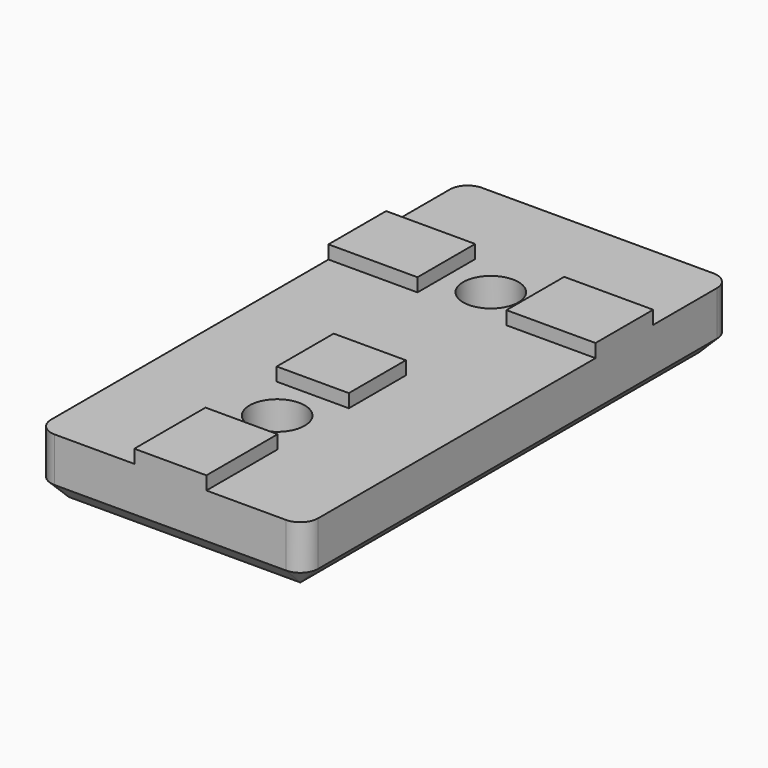
from build123d import *

# Parameters (mm, degrees)
SKETCH_W      = 30
SKETCH_H      = 60
PAD_DEPTH     = 7
FILLET_R      = 2
CHAMFER_SIZE  = 2
SKETCH001_R   = 3.1
POCKET_DEPTH  = 7.001
SKETCH002_W   = 10
SKETCH002_H   = 8.1
SKETCH002_W_2 = 8.1
SKETCH002_H_2 = 10
SKETCH002_H_3 = 8
PAD001_DEPTH  = 1.5


with BuildPart() as part:
    # Sketch → Pad (new body)
    with BuildSketch(Plane.XY):
        with Locations((0, -30)):
            Rectangle(SKETCH_W, SKETCH_H)
    extrude(amount=PAD_DEPTH)

    # Fillet
    fillet_edges = [part.edges().sort_by_distance(p)[0] for p in [
        (15, -60, 3.5),
        (15, 0, 3.5),
        (-15, 0, 3.5),
        (-15, -60, 3.5),
    ]]
    fillet(fillet_edges, radius=FILLET_R)

    # Chamfer
    chamfer_edges = [part.edges().sort_by_distance(p)[0] for p in [
        (15, -30, 0),
        (0, -60, 0),
        (-15, -30, 0),
        (0, 0, 0),
    ]]
    chamfer(chamfer_edges, length=CHAMFER_SIZE)

    # Sketch001 (on Face4 of Chamfer) → Pocket (cut, through all)
    with BuildSketch(Plane.XY.offset(7)):
        with Locations((0, -15)):
            Circle(SKETCH001_R)
        with Locations((0, -45)):
            Circle(SKETCH001_R)
    extrude(amount=-POCKET_DEPTH, mode=Mode.SUBTRACT)

    # Sketch002 (on Face4 of Pocket) → Pad001 (join)
    with BuildSketch(Plane.XY.offset(7)):
        with Locations((-10, -15)):
            Rectangle(SKETCH002_W, SKETCH002_H)
        with Locations((10, -15)):
            Rectangle(SKETCH002_W, SKETCH002_H)
        with Locations((0, -55)):
            Rectangle(SKETCH002_W_2, SKETCH002_H_2)
        with Locations((0, -36)):
            Rectangle(SKETCH002_W_2, SKETCH002_H_3)
    extrude(amount=PAD001_DEPTH)


solid = part.part
